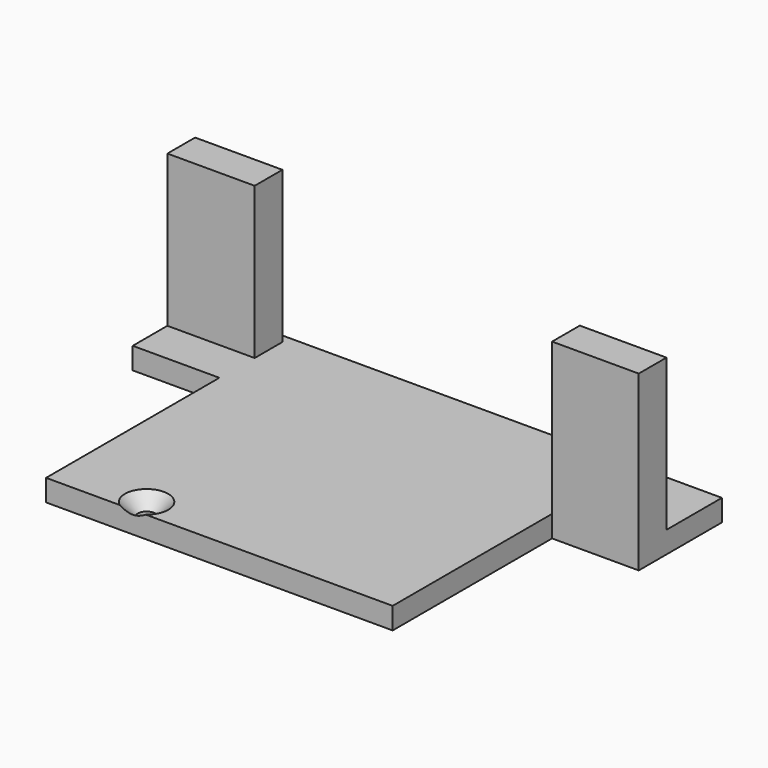
from build123d import *

# Parameters (mm, degrees)
F1_DEPTH       = 2.5
F0_W           = 10.07359
F0_H           = 4
F0_W_2         = 10
F0_H_2         = 2
F2_DEPTH       = 20
F4_D           = 2
F4_CSINK_D     = 5
F4_CSINK_ANGLE = 90


with BuildPart() as f1:
    # F0 (on Top) → F1 (new body)
    with BuildSketch(Plane.XY):
        Polygon((9.374975, 18.726558), (-30.625025, 18.726558), (-30.625025, -6.273442), (9.374975, -6.273442), (9.374975, 16.726558), align=None)
        Polygon((-40.625025, 18.726558), (-30.625025, 18.726558), (9.374975, 18.726558), (9.374975, 20.726558), (19.374975, 20.726558), (19.374975, 28.726558), (-40.625025, 28.726558), (-40.625025, 27.726558), (-30.551435, 27.726558), (-30.551435, 23.726558), (-40.625025, 23.726558), align=None)
    extrude(amount=F1_DEPTH)

    # F0 (on Top) → F2 (join)
    with BuildSketch(Plane.XY):
        with Locations((-35.58823, 25.726558)):
            Rectangle(F0_W, F0_H)
        with Locations((14.374975, 19.726558)):
            Rectangle(F0_W_2, F0_H_2)
        with Locations((14.374975, 17.726558)):
            Rectangle(F0_W_2, F0_H_2)
    extrude(amount=F2_DEPTH)

    # F4 (through all)
    with Locations(Plane.XY.offset(2.5)):
        with Locations((-20.625025, -4.273442)):
            CounterSinkHole(F4_D / 2, F4_CSINK_D / 2, counter_sink_angle=F4_CSINK_ANGLE)


solid = f1.part
